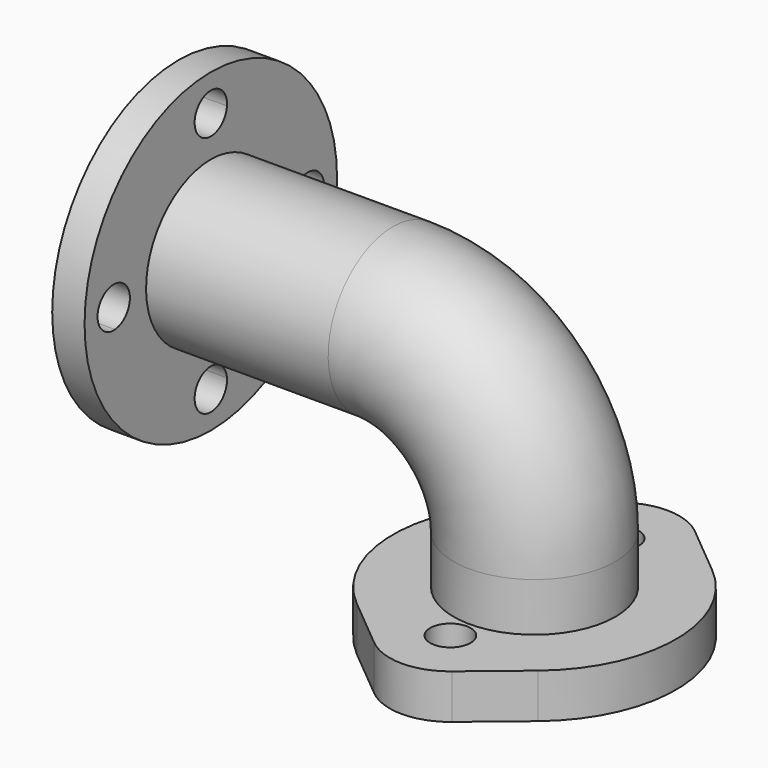
from build123d import *

# Parameters (mm, degrees)
F0_R     = 20
F0_R_2   = 13
F3_R     = 39
F3_R_2   = 20
F3_R_3   = 13
F4_DEPTH = 8
F5_R     = 5
F5_R_2   = 13
F6_DEPTH = 11


with BuildPart() as f2:
    # F2: sweep along a path in F1
    with BuildLine(Plane.XZ) as f2_path:
        Line((0, 0), (0, 23))
        ThreePointArc((0, 23), (-10.2512626585, 47.7487373415), (-35, 58))
        Line((-35, 58), (-88, 58))
    # F0 (on Top) → F2 (sweep)
    with BuildSketch(Plane.XY):
        Circle(F0_R)
        Circle(F0_R_2, mode=Mode.SUBTRACT)
    sweep(path=f2_path.line)

    # F3 (on face) → F4 (join)
    with BuildSketch(Plane(origin=(-88, 0, 0), x_dir=(0, -1, 0), z_dir=(-1, 0, 0))):
        with Locations((0, 58)):
            Circle(F3_R)
        with BuildLine():
            ThreePointArc((4.982608643, 87.5833333333), (21.2132034356, 79.2132034356), (29.5833333333, 62.982608643))
            ThreePointArc((29.5833333333, 62.982608643), (33.3850160019, 61.679900361), (35, 58))
            ThreePointArc((35, 58), (33.3850160019, 54.320099639), (29.5833333333, 53.017391357))
            ThreePointArc((29.5833333333, 53.017391357), (21.2132034356, 36.7867965644), (4.982608643, 28.4166666667))
            ThreePointArc((4.982608643, 28.4166666667), (4.9956502687, 28.2085147299), (5, 28))
            ThreePointArc((5, 28), (-0.2085147299, 23.0043497313), (-4.982608643, 28.4166666667))
            ThreePointArc((-4.982608643, 28.4166666667), (-21.2132034356, 36.7867965644), (-29.5833333333, 53.017391357))
            ThreePointArc((-29.5833333333, 53.017391357), (-35, 58), (-29.5833333333, 62.982608643))
            ThreePointArc((-29.5833333333, 62.982608643), (-21.2132034356, 79.2132034356), (-4.982608643, 87.5833333333))
            ThreePointArc((-4.982608643, 87.5833333333), (-0.2085147299, 92.9956502687), (5, 88))
            ThreePointArc((5, 88), (4.9956502687, 87.7914852701), (4.982608643, 87.5833333333))
        make_face(mode=Mode.SUBTRACT)
        with BuildLine():
            ThreePointArc((29.5833333333, 53.017391357), (25, 58), (29.5833333333, 62.982608643))
            ThreePointArc((29.5833333333, 62.982608643), (21.2132034356, 79.2132034356), (4.982608643, 87.5833333333))
            ThreePointArc((4.982608643, 87.5833333333), (0, 83), (-4.982608643, 87.5833333333))
            ThreePointArc((-4.982608643, 87.5833333333), (-21.2132034356, 79.2132034356), (-29.5833333333, 62.982608643))
            ThreePointArc((-29.5833333333, 62.982608643), (-26.320099639, 61.3850160019), (-25, 58))
            ThreePointArc((-25, 58), (-26.320099639, 54.6149839981), (-29.5833333333, 53.017391357))
            ThreePointArc((-29.5833333333, 53.017391357), (-21.2132034356, 36.7867965644), (-4.982608643, 28.4166666667))
            ThreePointArc((-4.982608643, 28.4166666667), (0, 33), (4.982608643, 28.4166666667))
            ThreePointArc((4.982608643, 28.4166666667), (21.2132034356, 36.7867965644), (29.5833333333, 53.017391357))
        make_face()
        with Locations((0, 58)):
            Circle(F3_R_2, mode=Mode.SUBTRACT)
        with Locations((0, 58)):
            Circle(F3_R_2)
        with Locations((0, 58)):
            Circle(F3_R_3, mode=Mode.SUBTRACT)
    extrude(amount=-F4_DEPTH)

    # F5 (on Top) → F6 (join)
    with BuildSketch(Plane.XY):
        with BuildLine():
            Line((22.3639873232, 26.9230769231), (9.5845659957, 37.5384615385))
            ThreePointArc((9.5845659957, 37.5384615385), (0, 41), (-9.5845659957, 37.5384615385))
            Line((-9.5845659957, 37.5384615385), (-22.3639873232, 26.9230769231))
            ThreePointArc((-22.3639873232, 26.9230769231), (-35, 0), (-22.3639873232, -26.9230769231))
            Line((-22.3639873232, -26.9230769231), (-9.5845659957, -37.5384615385))
            ThreePointArc((-9.5845659957, -37.5384615385), (0, -41), (9.5845659957, -37.5384615385))
            Line((9.5845659957, -37.5384615385), (22.3639873232, -26.9230769231))
            ThreePointArc((22.3639873232, -26.9230769231), (35, 0), (22.3639873232, 26.9230769231))
        make_face()
        with Locations((0, -26)):
            Circle(F5_R, mode=Mode.SUBTRACT)
        Circle(F5_R_2, mode=Mode.SUBTRACT)
        with Locations((0, 26)):
            Circle(F5_R, mode=Mode.SUBTRACT)
    extrude(amount=F6_DEPTH)


solid = f2.part
